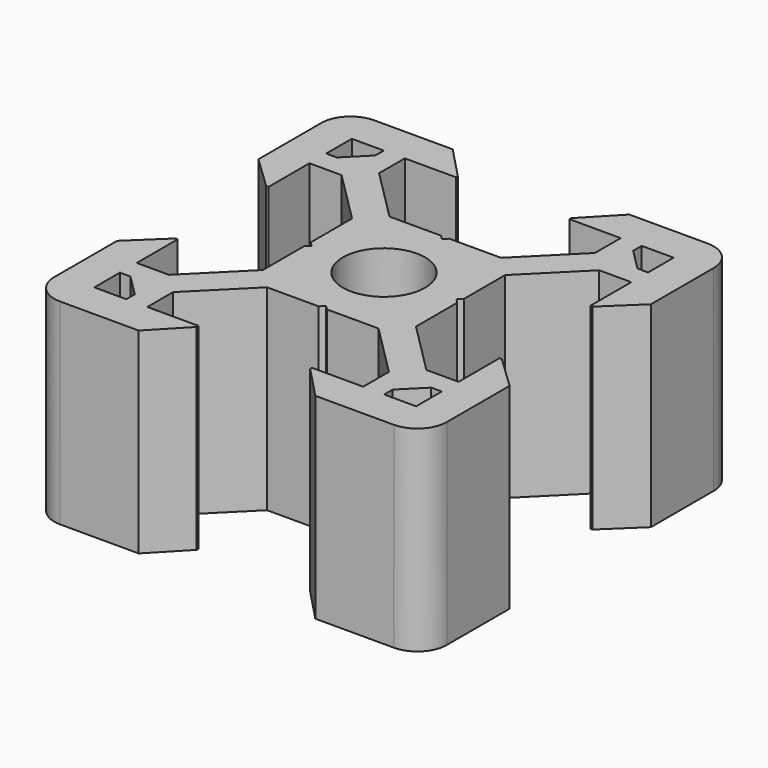
from build123d import *

# Parameters (mm, degrees)
EXTRUDE002_DEPTH = 10
EXTRUDE003_DEPTH = 10
EXTRUDE004_DEPTH = 10
EXTRUDE005_DEPTH = 10
CIRCLE001_R      = 2.096161
EXTRUDE001_DEPTH = 10
EXTRUDE_DEPTH    = 10


with BuildPart() as extrude002:
    # DWire008 → Extrude002 (new body)
    with BuildSketch(Plane.XY):
        Polygon((-6.57, -8.2), (-7.031056, -8.2), (-8.2, -8.2), (-8.2, -7.031056), (-8.2, -6.57), (-7.66, -6.57), (-6.57, -7.66), align=None)
    extrude(amount=EXTRUDE002_DEPTH)


with BuildPart() as extrude003:
    # DWire009 → Extrude003 (new body)
    with BuildSketch(Plane.XY):
        Polygon((8.2, 7.031056), (8.2, 8.2), (7.031056, 8.2), (6.57, 8.2), (6.57, 7.66), (7.66, 6.57), (8.2, 6.57), align=None)
    extrude(amount=EXTRUDE003_DEPTH)


with BuildPart() as extrude004:
    # DWire010 → Extrude004 (new body)
    with BuildSketch(Plane.XY):
        Polygon((8.2, -6.57), (8.2, -7.031056), (8.2, -8.2), (7.031056, -8.2), (6.57, -8.2), (6.57, -7.66), (7.66, -6.57), align=None)
    extrude(amount=EXTRUDE004_DEPTH)


with BuildPart() as extrude005:
    # DWire011 → Extrude005 (new body)
    with BuildSketch(Plane.XY):
        Polygon((-8.2, 6.57), (-8.2, 7.031056), (-8.2, 8.2), (-7.031056, 8.2), (-6.57, 8.2), (-6.57, 7.66), (-7.66, 6.57), align=None)
    extrude(amount=EXTRUDE005_DEPTH)


with BuildPart() as extrude001:
    # Circle001 → Extrude001 (new body)
    with BuildSketch(Plane.XY):
        Circle(CIRCLE001_R)
    extrude(amount=EXTRUDE001_DEPTH)


with BuildPart() as v_slot_20x20:
    # Sketch001 → Extrude (new body)
    with BuildSketch(Plane(origin=(0, 0, 0), x_dir=(0, 1, 0), z_dir=(0, 0, 1))):
        with BuildLine():
            ThreePointArc((10, 8.5), (9.56066, 9.56066), (8.5, 10))
            Line((8.5, 10), (4.5, 10))
            Line((4.5, 10), (2.89, 8.315116))
            Line((2.89, 8.315116), (2.89, 8.2))
            Line((2.89, 8.2), (5.5, 8.2))
            Line((5.5, 8.2), (5.5, 6.56))
            Line((5.5, 6.56), (2.84, 3.9))
            Line((2.84, 3.9), (0.21, 3.9))
            Line((0.21, 3.9), (0, 3.69))
            Line((0, 3.69), (-0.21, 3.9))
            Line((-0.21, 3.9), (-2.84, 3.9))
            Line((-2.84, 3.9), (-5.5, 6.56))
            Line((-5.5, 6.56), (-5.5, 8.2))
            Line((-5.5, 8.2), (-2.89, 8.2))
            Line((-2.89, 8.2), (-2.89, 8.315116))
            Line((-2.89, 8.315116), (-4.5, 10))
            Line((-4.5, 10), (-8.5, 10))
            ThreePointArc((-8.5, 10), (-9.56066, 9.56066), (-10, 8.5))
            Line((-10, 8.5), (-10, 4.5))
            Line((-10, 4.5), (-8.315116, 2.89))
            Line((-8.315116, 2.89), (-8.2, 2.89))
            Line((-8.2, 2.89), (-8.2, 5.5))
            Line((-8.2, 5.5), (-6.56, 5.5))
            Line((-6.56, 5.5), (-3.9, 2.84))
            Line((-3.9, 2.84), (-3.9, 0.21))
            Line((-3.9, 0.21), (-3.69, 0))
            Line((-3.69, 0), (-3.9, -0.21))
            Line((-3.9, -0.21), (-3.9, -2.84))
            Line((-3.9, -2.84), (-6.56, -5.5))
            Line((-6.56, -5.5), (-8.2, -5.5))
            Line((-8.2, -5.5), (-8.2, -2.89))
            Line((-8.2, -2.89), (-8.315116, -2.89))
            Line((-8.315116, -2.89), (-10, -4.5))
            Line((-10, -4.5), (-10, -8.5))
            ThreePointArc((-10, -8.5), (-9.56066, -9.56066), (-8.5, -10))
            Line((-8.5, -10), (-4.5, -10))
            Line((-4.5, -10), (-2.89, -8.315116))
            Line((-2.89, -8.315116), (-2.89, -8.2))
            Line((-2.89, -8.2), (-5.5, -8.2))
            Line((-5.5, -8.2), (-5.5, -6.56))
            Line((-5.5, -6.56), (-2.84, -3.9))
            Line((-2.84, -3.9), (-0.21, -3.9))
            Line((-0.21, -3.9), (0, -3.69))
            Line((0, -3.69), (0.21, -3.9))
            Line((0.21, -3.9), (2.84, -3.9))
            Line((2.84, -3.9), (5.5, -6.56))
            Line((5.5, -6.56), (5.5, -8.2))
            Line((5.5, -8.2), (2.89, -8.2))
            Line((2.89, -8.2), (2.89, -8.315116))
            Line((2.89, -8.315116), (4.5, -10))
            Line((4.5, -10), (8.5, -10))
            ThreePointArc((8.5, -10), (9.56066, -9.56066), (10, -8.5))
            Line((10, -8.5), (10, -4.5))
            Line((10, -4.5), (8.315116, -2.89))
            Line((8.315116, -2.89), (8.2, -2.89))
            Line((8.2, -2.89), (8.2, -5.5))
            Line((8.2, -5.5), (6.56, -5.5))
            Line((6.56, -5.5), (3.9, -2.84))
            Line((3.9, -2.84), (3.9, -0.21))
            Line((3.9, -0.21), (3.69, 0))
            Line((3.69, 0), (3.9, 0.21))
            Line((3.9, 0.21), (3.9, 2.84))
            Line((3.9, 2.84), (6.56, 5.5))
            Line((6.56, 5.5), (8.2, 5.5))
            Line((8.2, 5.5), (8.2, 2.89))
            Line((8.2, 2.89), (8.315116, 2.89))
            Line((8.315116, 2.89), (10, 4.5))
            Line((10, 4.5), (10, 8.5))
        make_face()
    extrude(amount=EXTRUDE_DEPTH)

    # Cut: cut Extrude001
    add(extrude001.part, mode=Mode.SUBTRACT)

    # Cut001: cut Extrude005
    add(extrude005.part, mode=Mode.SUBTRACT)

    # Cut002: cut Extrude004
    add(extrude004.part, mode=Mode.SUBTRACT)

    # Cut003: cut Extrude003
    add(extrude003.part, mode=Mode.SUBTRACT)

    # Cut004: cut Extrude002
    add(extrude002.part, mode=Mode.SUBTRACT)


solid = v_slot_20x20.part
